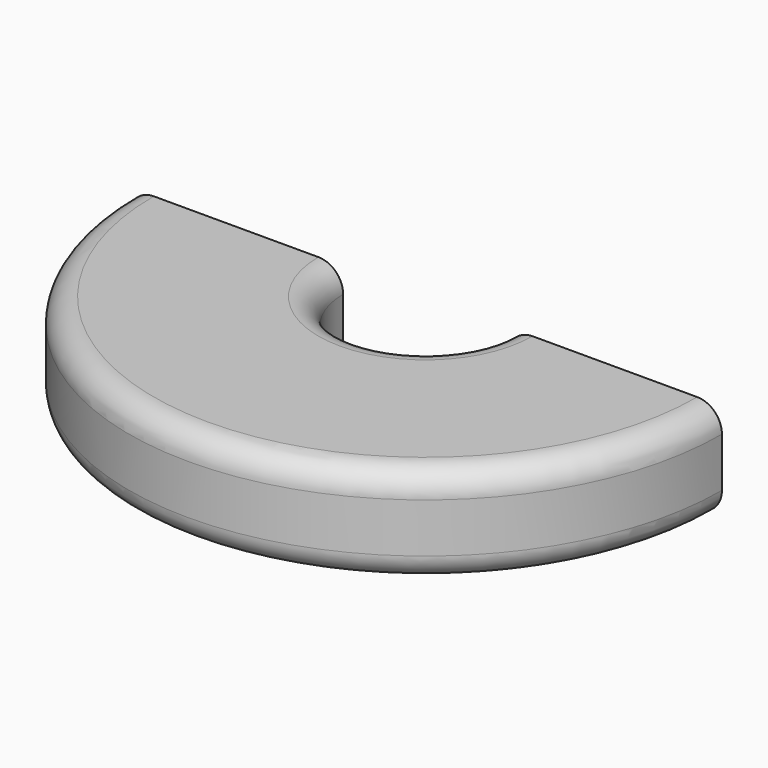
from build123d import *

# Parameters (mm, degrees)
F1_ANGLE = 180


with BuildPart() as f1:
    # F0 (on Front) → F1 (revolve)
    with BuildSketch(Plane.XZ):
        with BuildLine():
            Line((-16.51, 7.62), (-41.91, 7.62))
            ThreePointArc((-41.91, 7.62), (-44.604077, 6.504077), (-45.72, 3.81))
            Line((-45.72, 3.81), (-45.72, -3.81))
            ThreePointArc((-45.72, -3.81), (-44.604077, -6.504077), (-41.91, -7.62))
            Line((-41.91, -7.62), (-16.51, -7.62))
            ThreePointArc((-16.51, -7.62), (-13.815923, -6.504077), (-12.7, -3.81))
            Line((-12.7, -3.81), (-12.7, 3.81))
            ThreePointArc((-12.7, 3.81), (-13.815923, 6.504077), (-16.51, 7.62))
        make_face()
    revolve(axis=Axis((0, 0, 0), (0, 0, 1)), revolution_arc=F1_ANGLE)


solid = f1.part
